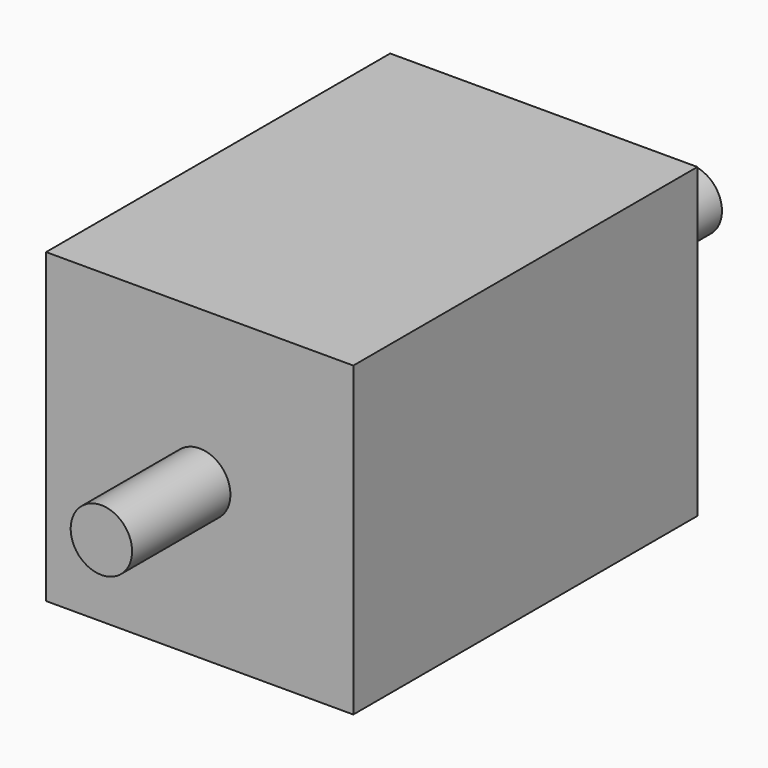
from build123d import *

# Parameters (mm, degrees)
CYLINDER009_R          = 1
CYLINDER009_DEPTH      = 5
CYLINDER010_R          = 1
CYLINDER010_DEPTH      = 5
CYLINDER011_R          = 1
CYLINDER011_DEPTH      = 5
CYLINDER008_R          = 1
CYLINDER008_DEPTH      = 5
CYLINDER007_R          = 8
CYLINDER007_DEPTH      = 1.5
CYLINDER013_R          = 2
CYLINDER013_DEPTH      = 48
BOX001_W               = 20
BOX001_H               = 28
BOX001_DEPTH           = 20
CUT001_PLACEMENT_ANGLE = 180


with BuildPart() as cylinder009:
    # Cylinder009 → Cylinder009 (new body)
    with BuildSketch(Plane(origin=(-7.7, 0, 7.7), x_dir=(1, 0, 0), z_dir=(0, 1, 0))):
        Circle(CYLINDER009_R)
    extrude(amount=CYLINDER009_DEPTH)


with BuildPart() as cylinder010:
    # Cylinder010 → Cylinder010 (new body)
    with BuildSketch(Plane(origin=(7.7, 0, -7.7), x_dir=(1, 0, 0), z_dir=(0, 1, 0))):
        Circle(CYLINDER010_R)
    extrude(amount=CYLINDER010_DEPTH)


with BuildPart() as cylinder011:
    # Cylinder011 → Cylinder011 (new body)
    with BuildSketch(Plane(origin=(7.7, 0, 7.7), x_dir=(1, 0, 0), z_dir=(0, 1, 0))):
        Circle(CYLINDER011_R)
    extrude(amount=CYLINDER011_DEPTH)


with BuildPart() as fusion004:
    # Cylinder008 → Cylinder008 (new body)
    with BuildSketch(Plane(origin=(-7.7, 0, -7.7), x_dir=(1, 0, 0), z_dir=(0, 1, 0))):
        Circle(CYLINDER008_R)
    extrude(amount=CYLINDER008_DEPTH)

    # Fusion004: union Cylinder009, Cylinder010, Cylinder011
    add(cylinder009.part)
    add(cylinder010.part)
    add(cylinder011.part)


with BuildPart() as cylinder007:
    # Cylinder007 → Cylinder007 (new body)
    with BuildSketch(Plane(origin=(0, -1.5, 0), x_dir=(1, 0, 0), z_dir=(0, 1, 0))):
        Circle(CYLINDER007_R)
    extrude(amount=CYLINDER007_DEPTH)


with BuildPart() as cylinder013:
    # Cylinder013 → Cylinder013 (new body)
    with BuildSketch(Plane(origin=(0, -12, 0), x_dir=(1, 0, 0), z_dir=(0, 1, 0))):
        Circle(CYLINDER013_R)
    extrude(amount=CYLINDER013_DEPTH)


with BuildPart() as doubleshaftstepper:
    # Box001 → Box001 (new body)
    with BuildSketch(Plane(origin=(-10, 0, -10), x_dir=(1, 0, 0), z_dir=(0, 0, 1))):
        with Locations((10, 14)):
            Rectangle(BOX001_W, BOX001_H)
    extrude(amount=BOX001_DEPTH)

    # Fusion003: union Cylinder007, Cylinder013
    add(cylinder007.part)
    add(cylinder013.part)

    # Cut001: cut Fusion004
    add(fusion004.part, mode=Mode.SUBTRACT)


with BuildPart() as doubleshaftstepper_1:
    # Cut001 placement: moved
    add(doubleshaftstepper.part.moved(Location((0, 42, 30))).rotate(Axis((0, 42, 30), (0, 0, 1)), CUT001_PLACEMENT_ANGLE))


solid = doubleshaftstepper_1.part
